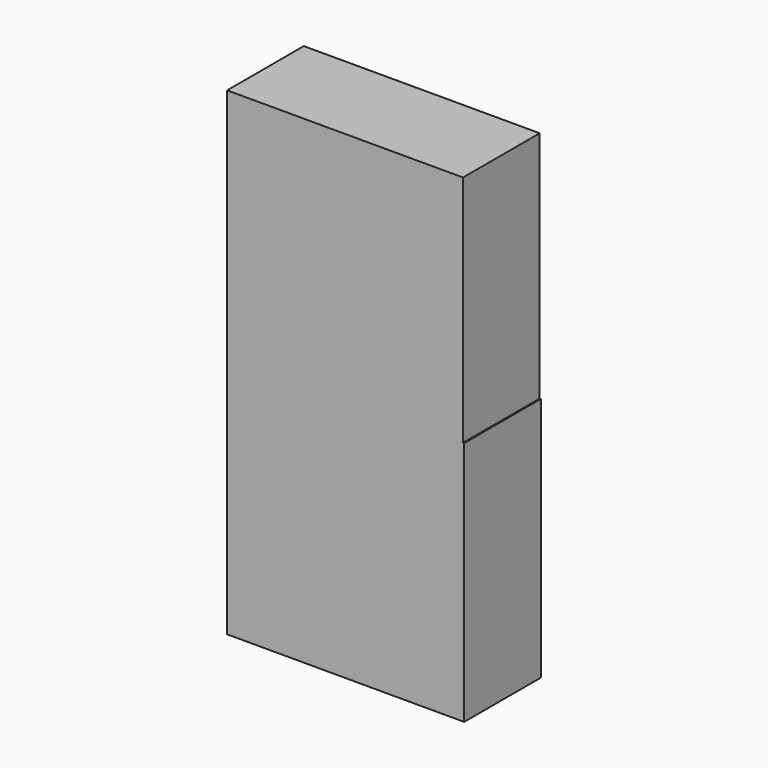
from build123d import *

# Parameters (mm, degrees)
F0_W     = 28.272083
F0_H     = 58.523215
F0_H_2   = 55.696007
F0_W_2   = 27.989367
F1_DEPTH = 22.86


with BuildPart() as f1:
    # F0 (on Front) → F1 (new body)
    with BuildSketch(Plane.XZ):
        with Locations((-14.136041, -29.261608)):
            Rectangle(F0_W, F0_H)
        Polygon((27.989367, 0), (0, 0), (0, -58.523215), (28.272087, -58.523215), (28.272087, 0), align=None)
        with Locations((-14.136041, 27.848003)):
            Rectangle(F0_W, F0_H_2)
        with Locations((13.994683, 27.848003)):
            Rectangle(F0_W_2, F0_H_2)
    extrude(amount=F1_DEPTH)


solid = f1.part
